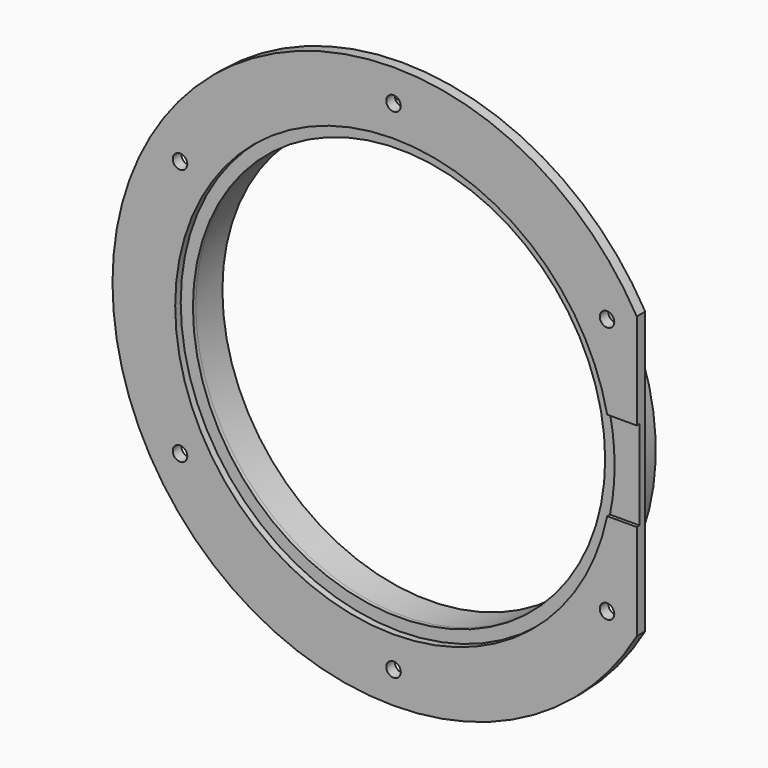
from build123d import *

# Parameters (mm, degrees)
F0_R      = 53
F0_R_2    = 38.875
F1_DEPTH  = 2
F2_W      = 15.987269
F2_H      = 100
F3_DEPTH  = 25
F4_R      = 41.175
F5_DEPTH  = 1.3
F6_R      = 42.86
F6_R_2    = 38.875
F7_DEPTH  = 6.25
F8_R      = 1.37
F9_DEPTH  = 25
F10_W     = 16.146997
F10_H     = 16.86
F11_DEPTH = 0.65


with BuildPart() as f1:
    # F0 (on Front) → F1 (new body)
    with BuildSketch(Plane.XZ):
        Circle(F0_R)
        Circle(F0_R_2, mode=Mode.SUBTRACT)
    extrude(amount=F1_DEPTH)

    # F2 (on face) → F3 (cut)
    with BuildSketch(Plane.XZ.offset(2)):
        with Locations((53.868634, 20.202986)):
            Rectangle(F2_W, F2_H)
    extrude(amount=-F3_DEPTH, mode=Mode.SUBTRACT)

    # F4 (on face) → F5 (cut)
    with BuildSketch(Plane.XZ.offset(2)):
        Circle(F4_R)
    extrude(amount=-F5_DEPTH, mode=Mode.SUBTRACT)

    # F6 (on face) → F7 (join)
    with BuildSketch(Plane(origin=(0, 0, 0), x_dir=(-1, 0, 0), z_dir=(0, 1, 0))):
        Circle(F6_R)
        Circle(F6_R_2, mode=Mode.SUBTRACT)
    extrude(amount=F7_DEPTH)

    # F8 (on face) → F9 (cut)
    with BuildSketch(Plane.XZ.offset(2)):
        with Locations((0, 47)):
            Circle(F8_R)
        with Locations((0, -47)):
            Circle(F8_R)
        with Locations((40.264472, 24.244016)):
            Circle(F8_R)
        with Locations((-40.264472, 24.244016)):
            Circle(F8_R)
        with Locations((-40.264472, -24.244016)):
            Circle(F8_R)
        with Locations((40.264472, -24.244016)):
            Circle(F8_R)
    extrude(amount=-F9_DEPTH, mode=Mode.SUBTRACT)

    # F10 (on face) → F11 (cut)
    with BuildSketch(Plane.XZ.offset(2)):
        with Locations((43.073498, 0)):
            Rectangle(F10_W, F10_H)
    extrude(amount=-F11_DEPTH, mode=Mode.SUBTRACT)


solid = f1.part
